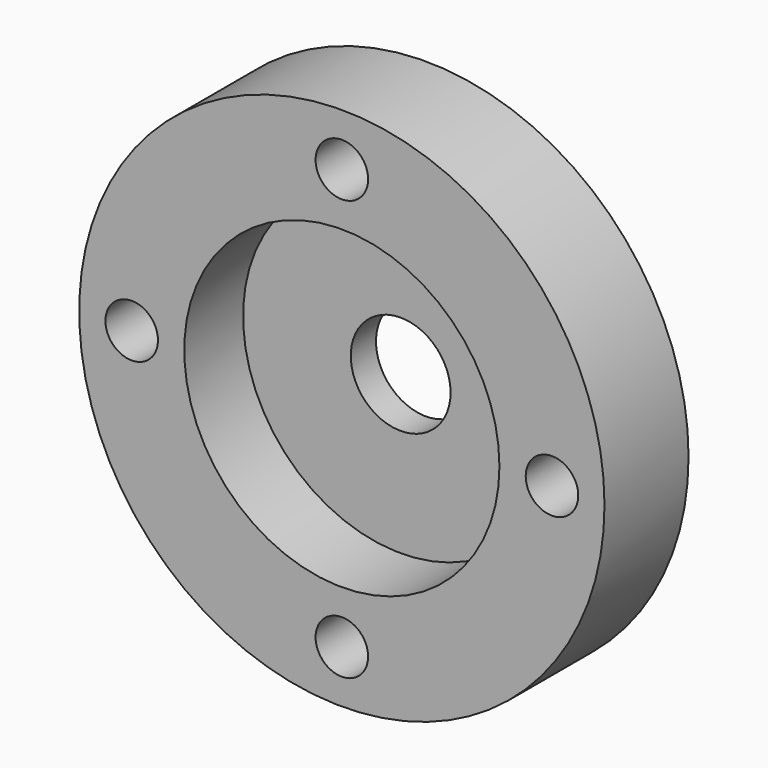
from build123d import *

# Parameters (mm, degrees)
F0_R     = 25
F1_DEPTH = 10
F2_R     = 4.75
F3_DEPTH = 25
F4_R     = 15
F5_DEPTH = 7
F7_D     = 5
F7_DEPTH = 6
F7_TIP   = 1.5021515476


with BuildPart() as f1:
    # F0 (on Front) → F1 (new body)
    with BuildSketch(Plane.XZ):
        Circle(F0_R)
    extrude(amount=F1_DEPTH)

    # F2 (on face) → F3 (cut)
    with BuildSketch(Plane.XZ.offset(10)):
        Circle(F2_R)
    extrude(amount=-F3_DEPTH, mode=Mode.SUBTRACT)

    # F4 (on face) → F5 (cut)
    with BuildSketch(Plane.XZ.offset(10)):
        Circle(F4_R)
    extrude(amount=-F5_DEPTH, mode=Mode.SUBTRACT)

    # F7
    with Locations(Plane.XZ.offset(10)):
        with Locations((0, 20), (20, 0), (0, -20), (-20, 0)):
            Hole(F7_D / 2, depth=F7_DEPTH)
            with Locations((0, 0, -(F7_DEPTH + F7_TIP / 2))):  # 118° drill point
                Cone(0, F7_D / 2, F7_TIP, mode=Mode.SUBTRACT)


solid = f1.part
